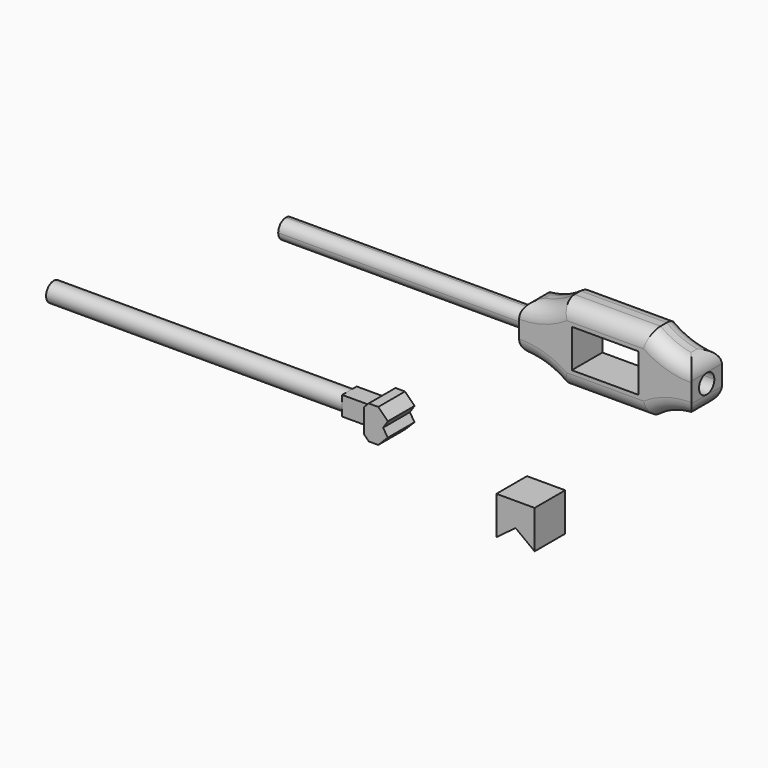
from build123d import *

# Parameters (mm, degrees)
F2_DEPTH  = 12.7
F0_W      = 22.225
F0_H      = 12.7
F3_DEPTH  = 12.7
F4_DEPTH  = 9.525
F5_START  = 2.0574
F0_W_2    = 9.647949481
F0_H_2    = 6.35
F5_DEPTH  = 6.0452
F6_DEPTH  = 11.1125
F8_DEPTH  = 82.55
F10_DEPTH = 22.225
F11_R     = 5.08
F13_R     = 3.175
F14_DEPTH = 76.2
F17_DEPTH = 25.4


with BuildPart() as f2:
    # F1 (on Front) → F2 (new body)
    with BuildSketch(Plane.XZ):
        Polygon((-68.6993332744, -26.2016901404), (-62.3493332744, -30.9641901404), (-62.3493332744, -18.2641901404), (-75.0493332744, -18.2641901404), (-75.0493332744, -30.9641901404), align=None)
    extrude(amount=F2_DEPTH)


with BuildPart() as f3:
    # F0 (on Front) → F3 (new body)
    with BuildSketch(Plane.XZ):
        with BuildLine():
            ThreePointArc((-53.1870887518, 45.0542944759), (-59.9444150735, 41.5137734411), (-67.4745887518, 40.2917944759))
            Line((-67.4745887518, 40.2917944759), (-67.4745887518, 38.7042944759))
            Line((-67.4745887518, 38.7042944759), (-67.4745887518, 26.0042944759))
            Line((-67.4745887518, 26.0042944759), (-67.4745887518, 24.4167944759))
            ThreePointArc((-67.4745887518, 24.4167944759), (-59.9444150735, 23.1948155107), (-53.1870887518, 19.6542944759))
            Line((-53.1870887518, 19.6542944759), (-24.6120887518, 19.6542944759))
            ThreePointArc((-24.6120887518, 19.6542944759), (-17.8547624301, 23.1948155107), (-10.3245887518, 24.4167944759))
            Line((-10.3245887518, 24.4167944759), (-10.3245887518, 40.2917944759))
            ThreePointArc((-10.3245887518, 40.2917944759), (-17.8547624301, 41.5137734411), (-24.6120887518, 45.0542944759))
            Line((-24.6120887518, 45.0542944759), (-53.1870887518, 45.0542944759))
        make_face()
        with Locations((-38.8995887518, 32.3542944759)):
            Rectangle(F0_W, F0_H, mode=Mode.SUBTRACT)
    extrude(amount=F3_DEPTH)

    # F7 (on face) → F8 (join)
    with BuildSketch(Plane(origin=(-67.4745887518, 0, 0), x_dir=(0, -1, 0), z_dir=(-1, 0, 0))):
        with BuildLine():
            ThreePointArc((9.525, 32.3542944759), (8.5950640303, 34.5993585062), (6.35, 35.5292944759))
            ThreePointArc((6.35, 35.5292944759), (4.1049359697, 30.1092304456), (9.525, 32.3542944759))
        make_face()
    extrude(amount=F8_DEPTH)

    # F11
    f11_edges = [f3.edges().sort_by_distance(p)[0] for p in [
        (-59.944415, -12.7, 41.513773),
        (-59.944415, 0, 41.513773),
        (-38.899589, -12.7, 45.054294),
        (-38.899589, 0, 45.054294),
        (-17.854762, 0, 41.513773),
        (-17.854762, -12.7, 41.513773),
        (-17.854762, -12.7, 23.194816),
        (-17.854762, 0, 23.194816),
        (-38.899589, 0, 19.654294),
        (-38.899589, -12.7, 19.654294),
        (-59.944415, -12.7, 23.194816),
        (-59.944415, 0, 23.194816),
        (-67.474589, -6.35, 40.291794),
        (-67.474589, -6.35, 24.416794),
        (-10.324589, -6.35, 40.291794),
        (-10.324589, -6.35, 24.416794),
    ]]
    fillet(f11_edges, radius=F11_R)

    # F16 (on face) → F17 (cut)
    with BuildSketch(Plane.YZ.offset(-10.3245887518)):
        with BuildLine():
            ThreePointArc((-9.4988360207, 32.3542944759), (-6.3227653339, 29.1814374764), (-3.1488367438, 32.3564372957))
            ThreePointArc((-3.1488367438, 32.3564372957), (-6.3249081538, 35.5314371149), (-9.4988360207, 32.3542944759))
        make_face()
    extrude(amount=-F17_DEPTH, mode=Mode.SUBTRACT)


with BuildPart() as f4:
    # F0 (on Front) → F4 (new body)
    with BuildSketch(Plane.XZ):
        Polygon((-152.1686315536, -17.0060861856), (-152.1686315536, -7.4810861856), (-152.1686315536, -5.8935861856), (-228.3686315536, -5.8935861856), (-228.3686315536, -18.5935861856), (-152.1686315536, -18.5935861856), align=None)
    extrude(amount=F4_DEPTH)


with BuildPart() as f5:
    # F0 (on Front) → F5 (new body)
    with BuildSketch(Plane.XZ.offset(F5_START)):
        with Locations((-125.1196568131, -12.2435861856)):
            Rectangle(F0_W_2, F0_H_2)
    extrude(amount=F5_DEPTH)


with BuildPart() as f6:
    # F0 (on Front) → F6 (new body)
    with BuildSketch(Plane.XZ):
        Polygon((-120.2956820726, -8.2748361856), (-120.2956820726, -9.0685861856), (-120.2956820726, -15.4185861856), (-120.2956820726, -16.2123361856), (-118.7081820726, -17.7998361856), (-115.5331820726, -17.7998361856), (-112.3581820726, -14.6248361856), (-113.9456820726, -12.2435861856), (-112.3581820726, -9.8623361856), (-115.5331820726, -6.6873361856), (-118.7081820726, -6.6873361856), align=None)
    extrude(amount=F6_DEPTH)


with BuildPart() as f10:
    # F9 (on face) → F10 (new body)
    with BuildSketch(Plane.YZ.offset(-152.1686315536)):
        with BuildLine():
            ThreePointArc((-1.5875, -12.2435861856), (-4.7625, -9.0685861856), (-7.9375, -12.2435861856))
            ThreePointArc((-7.9375, -12.2435861856), (-4.7625, -15.4185861856), (-1.5875, -12.2435861856))
        make_face()
    extrude(amount=F10_DEPTH)

    # F13 (on face) → F14 (join)
    with BuildSketch(Plane(origin=(-152.1686315536, 0, 0), x_dir=(0, -1, 0), z_dir=(-1, 0, 0))):
        with Locations((4.7625, -12.2435861856)):
            Circle(F13_R)
    extrude(amount=F14_DEPTH)


solid = Compound([f2.part, f3.part, f5.part, f6.part, f10.part])
